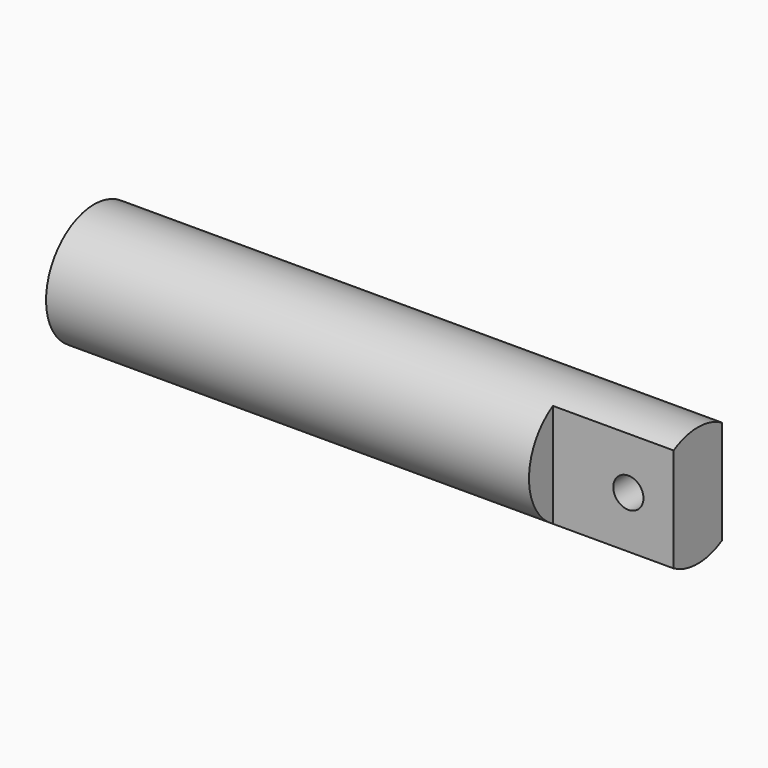
from build123d import *

# Parameters (mm, degrees)
F2_W     = 3.756756
F2_H     = 4.62162
F2_W_2   = 0.5
F2_H_2   = 2.189189
F3_DEPTH = 1
F4_R     = 0.125
F5_DEPTH = 1


with BuildPart() as f1:
    # F0 (on Front) → F1 (revolve)
    with BuildSketch(Plane.XZ):
        with BuildLine():
            ThreePointArc((0, 0.433013), (0.183013, 0.25), (0.25, 0))
            Line((0.25, 0), (5, 0))
            Line((5, 0), (5, 0.4975))
            Line((5, 0.4975), (0, 0.4975))
            Line((0, 0.4975), (0, 0.433013))
        make_face()
    revolve(axis=Axis((2.5, 0, 0), (1, 0, 0)))

    # F2 (on face) → F3 (cut)
    with BuildSketch(Plane.YZ.offset(5)):
        with Locations((0.073675, -0.219305)):
            Rectangle(F2_W, F2_H)
        with Locations((0, -0.16525)):
            Rectangle(F2_W_2, F2_H_2, mode=Mode.SUBTRACT)
    extrude(amount=-F3_DEPTH, mode=Mode.SUBTRACT)

    # F4 (on face) → F5 (cut)
    with BuildSketch(Plane.XZ.offset(0.25)):
        with Locations((4.625, 0)):
            Circle(F4_R)
    extrude(amount=-F5_DEPTH, mode=Mode.SUBTRACT)


solid = f1.part
